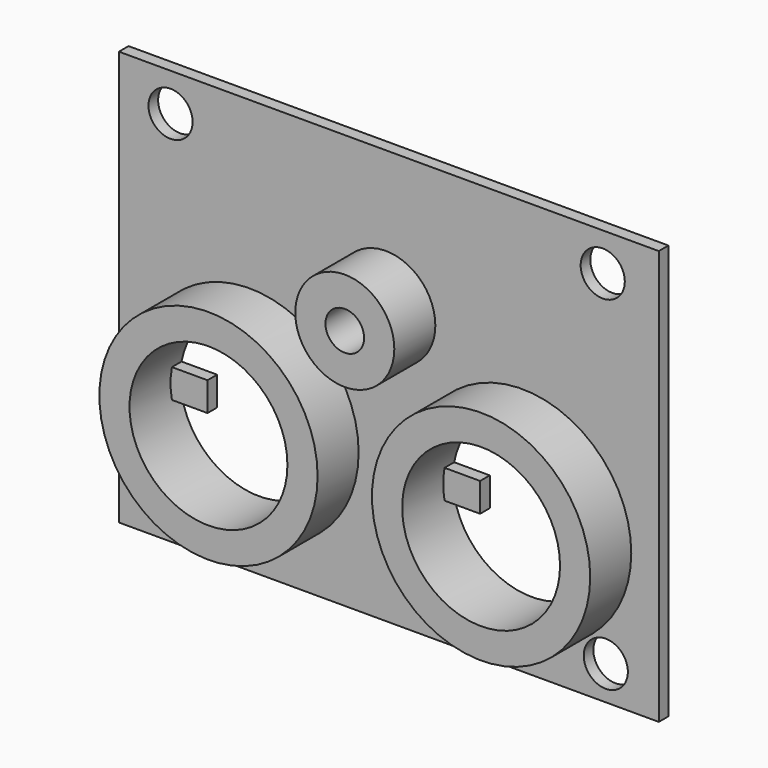
from build123d import *

# Parameters (mm, degrees)
F2_W     = 113.607649
F2_H     = 87.222615
F2_R     = 4.645393
F2_R_2   = 22.963932
F2_R_3   = 10.420251
F2_R_4   = 16.613932
F2_R_5   = 4.070252
F3_DEPTH = 2.54
F4_DEPTH = 13.335
F6_DEPTH = 2.54


with BuildPart() as f3:
    # F2 (on Front) → F3 (new body)
    with BuildSketch(Plane.XZ):
        with Locations((0.638156, 14.24115)):
            Rectangle(F2_W, F2_H)
        with Locations((-45.301553, -22.221763)):
            Circle(F2_R, mode=Mode.SUBTRACT)
        with Locations((-28.683275, 0)):
            Circle(F2_R_2, mode=Mode.SUBTRACT)
        with Locations((46.289496, -22.221763)):
            Circle(F2_R, mode=Mode.SUBTRACT)
        with Locations((28.683275, 0)):
            Circle(F2_R_2, mode=Mode.SUBTRACT)
        with Locations((0, 28.790265)):
            Circle(F2_R_3, mode=Mode.SUBTRACT)
        with Locations((-45.301553, 49.873423)):
            Circle(F2_R, mode=Mode.SUBTRACT)
        with Locations((45.644229, 49.873423)):
            Circle(F2_R, mode=Mode.SUBTRACT)
        with Locations((-28.683275, 0)):
            Circle(F2_R_2)
        with Locations((-28.683275, 0)):
            Circle(F2_R_4, mode=Mode.SUBTRACT)
        with Locations((0, 28.790265)):
            Circle(F2_R_3)
        with Locations((0, 28.790265)):
            Circle(F2_R_5, mode=Mode.SUBTRACT)
        with Locations((28.683275, 0)):
            Circle(F2_R_2)
        with Locations((28.683275, 0)):
            Circle(F2_R_4, mode=Mode.SUBTRACT)
    extrude(amount=F3_DEPTH)

    # F2 (on Front) → F4 (join)
    with BuildSketch(Plane.XZ):
        with Locations((0, 28.790265)):
            Circle(F2_R_3)
        with Locations((0, 28.790265)):
            Circle(F2_R_5, mode=Mode.SUBTRACT)
        with Locations((28.683275, 0)):
            Circle(F2_R_2)
        with Locations((28.683275, 0)):
            Circle(F2_R_4, mode=Mode.SUBTRACT)
        with Locations((-28.683275, 0)):
            Circle(F2_R_2)
        with Locations((-28.683275, 0)):
            Circle(F2_R_4, mode=Mode.SUBTRACT)
    extrude(amount=F4_DEPTH)

    # F5 (on face) → F6 (join)
    with BuildSketch(Plane(origin=(0, 0, 0), x_dir=(-1, 0, 0), z_dir=(0, 1, 0))):
        with BuildLine():
            Line((-12.350136, 3.041595), (-19.840281, 3.041595))
            Line((-19.840281, 3.041595), (-19.840281, -3.041595))
            Line((-19.840281, -3.041595), (-12.350136, -3.041595))
            ThreePointArc((-12.350136, -3.041595), (-12.069343, 0), (-12.350136, 3.041595))
        make_face()
        with BuildLine():
            Line((-37.526269, -3.041595), (-37.526269, 3.041595))
            Line((-37.526269, 3.041595), (-45.016414, 3.041595))
            ThreePointArc((-45.016414, 3.041595), (-45.297207, 0), (-45.016414, -3.041595))
            Line((-45.016414, -3.041595), (-37.526269, -3.041595))
        make_face()
        with BuildLine():
            Line((45.016414, 3.041595), (37.526269, 3.041595))
            Line((37.526269, 3.041595), (37.526269, -3.041595))
            Line((37.526269, -3.041595), (45.016414, -3.041595))
            ThreePointArc((45.016414, -3.041595), (45.297207, 0), (45.016414, 3.041595))
        make_face()
        with BuildLine():
            ThreePointArc((12.350136, 3.041595), (12.069343, 0), (12.350136, -3.041595))
            Line((12.350136, -3.041595), (19.840281, -3.041595))
            Line((19.840281, -3.041595), (19.840281, 3.041595))
            Line((19.840281, 3.041595), (12.350136, 3.041595))
        make_face()
    extrude(amount=-F6_DEPTH)


solid = f3.part
